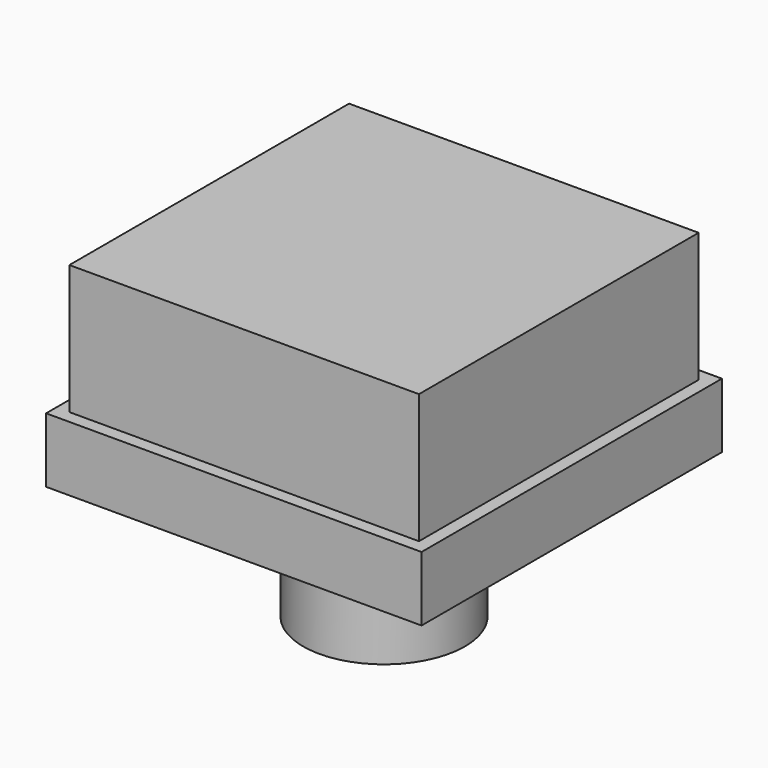
from build123d import *

# Parameters (mm, degrees)
SKETCH006_W  = 5.4
SKETCH006_H  = 5.4
PAD003_DEPTH = 3
SKETCH007_W  = 5.8
SKETCH007_H  = 5.8
PAD004_DEPTH = 1
SKETCH008_R  = 1.25
PAD005_DEPTH = 2


with BuildPart() as part:
    # Sketch006 → Pad003 (new body)
    with BuildSketch(Plane.XY):
        with Locations((15.2, 19)):
            Rectangle(SKETCH006_W, SKETCH006_H)
    extrude(amount=PAD003_DEPTH)

    # Sketch007 → Pad004 (join)
    with BuildSketch(Plane.XY):
        with Locations((15.2, 19)):
            Rectangle(SKETCH007_W, SKETCH007_H)
    extrude(amount=PAD004_DEPTH)

    # Sketch008 → Pad005 (join)
    with BuildSketch(Plane.XY):
        with Locations((15.2, 19)):
            Circle(SKETCH008_R)
    extrude(amount=-PAD005_DEPTH)


with BuildPart() as part_1:
    # Body003 placement: moved
    add(part.part.moved(Location((0, 0, 8.5))))


solid = part_1.part
